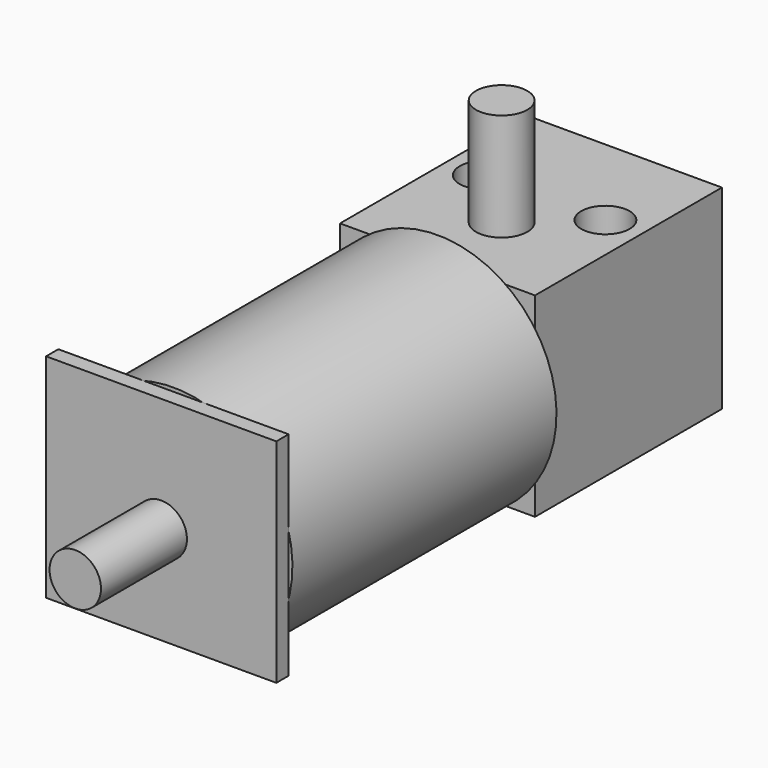
from build123d import *

# Parameters (mm, degrees)
F0_W      = 12.7
F0_H      = 12.7
F1_DEPTH  = 15.22
F2_R      = 1.575
F3_DEPTH  = 12.7
F4_R      = 1.675
F5_DEPTH  = 7
F6_R      = 7.75
F7_DEPTH  = 21.5
F9_DEPTH  = 1
F10_R     = 1.675
F11_DEPTH = 7
F12_W     = 18.3020820841
F12_H     = 46.3375374675
F13_DEPTH = 25


with BuildPart() as f1:
    # F0 (on Front) → F1 (new body)
    with BuildSketch(Plane.XZ):
        Rectangle(F0_W, F0_H)
    extrude(amount=-F1_DEPTH)

    # F2 (on face) → F3 (cut, through all)
    with BuildSketch(Plane.XY.offset(6.35)):
        with Locations((-3.96, 8.72)):
            Circle(F2_R)
        with Locations((3.96, 8.72)):
            Circle(F2_R)
    extrude(amount=-F3_DEPTH, mode=Mode.SUBTRACT)

    # F4 (on face) → F5 (join)
    with BuildSketch(Plane.XY.offset(6.35)):
        with Locations((0, 5.22)):
            Circle(F4_R)
    extrude(amount=F5_DEPTH)


with BuildPart() as f7:
    # F6 (on face) → F7 (new body)
    with BuildSketch(Plane.XZ):
        Circle(F6_R)
    extrude(amount=F7_DEPTH)


with BuildPart() as f9:
    # F8 (on face) → F9 (new body)
    with BuildSketch(Plane.XZ.offset(21.5)):
        with BuildLine():
            ThreePointArc((7.5, 1.952562419), (5.4800775542, 5.4800775542), (1.952562419, 7.5))
            Line((1.952562419, 7.5), (-1.952562419, 7.5))
            ThreePointArc((-1.952562419, 7.5), (-5.4800775542, 5.4800775542), (-7.5, 1.952562419))
            Line((-7.5, 1.952562419), (-7.5, -1.952562419))
            ThreePointArc((-7.5, -1.952562419), (-5.4800775542, -5.4800775542), (-1.952562419, -7.5))
            Line((-1.952562419, -7.5), (1.952562419, -7.5))
            ThreePointArc((1.952562419, -7.5), (5.4800775542, -5.4800775542), (7.5, -1.952562419))
            Line((7.5, -1.952562419), (7.5, 1.952562419))
        make_face()
        with BuildLine():
            Line((7.5, 1.952562419), (7.5, 7.5))
            Line((7.5, 7.5), (1.952562419, 7.5))
            ThreePointArc((1.952562419, 7.5), (5.4800775542, 5.4800775542), (7.5, 1.952562419))
        make_face()
        with BuildLine():
            ThreePointArc((-7.5, 1.952562419), (-5.4800775542, 5.4800775542), (-1.952562419, 7.5))
            Line((-1.952562419, 7.5), (-7.5, 7.5))
            Line((-7.5, 7.5), (-7.5, 1.952562419))
        make_face()
        with BuildLine():
            Line((7.5, -7.5), (7.5, -1.952562419))
            ThreePointArc((7.5, -1.952562419), (5.4800775542, -5.4800775542), (1.952562419, -7.5))
            Line((1.952562419, -7.5), (7.5, -7.5))
        make_face()
        with BuildLine():
            ThreePointArc((-1.952562419, -7.5), (-5.4800775542, -5.4800775542), (-7.5, -1.952562419))
            Line((-7.5, -1.952562419), (-7.5, -7.5))
            Line((-7.5, -7.5), (-1.952562419, -7.5))
        make_face()
    extrude(amount=F9_DEPTH)


with BuildPart() as f11:
    # F10 (on face) → F11 (new body)
    with BuildSketch(Plane.XZ.offset(22.5)):
        Circle(F10_R)
    extrude(amount=F11_DEPTH)


with BuildPart() as f13_tool:
    # F12 (on face) → F13 (new body)
    with BuildSketch(Plane(origin=(0, 0, -6.35), x_dir=(1, 0, 0), z_dir=(0, 0, -1))):
        with Locations((-0.3079646267, 3.9059985429)):
            Rectangle(F12_W, F12_H)
    extrude(amount=F13_DEPTH)


with BuildPart() as f7_1:
    add(f7.part)

    # F13: cut by f13_tool
    add(f13_tool.part, mode=Mode.SUBTRACT)


with BuildPart() as f9_1:
    add(f9.part)

    # F13: cut by f13_tool
    add(f13_tool.part, mode=Mode.SUBTRACT)


solid = Compound([f1.part, f11.part, f7_1.part, f9_1.part])
